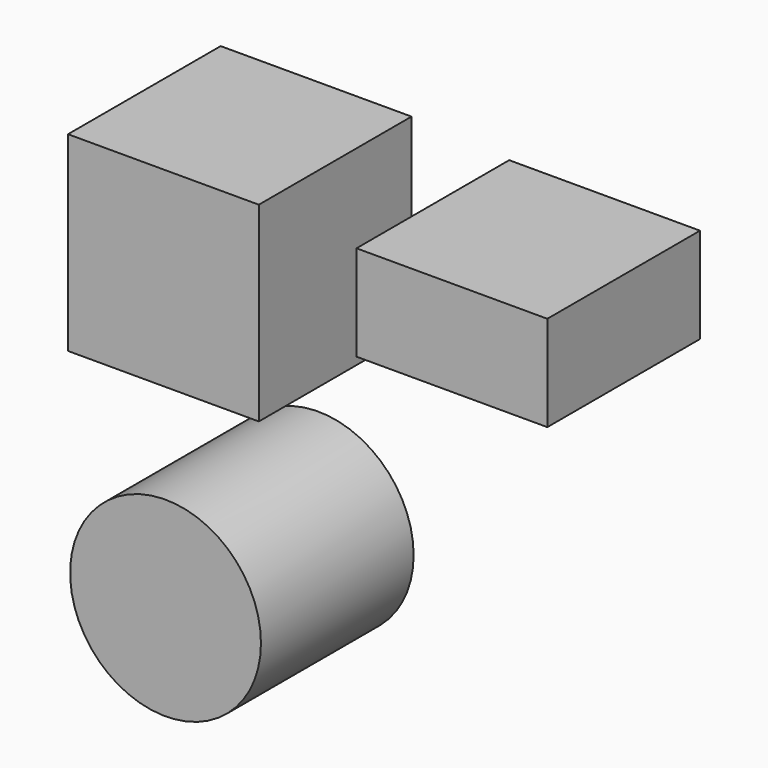
from build123d import *

# Parameters (mm, degrees)
F0_W     = 50.8
F0_H     = 50.8
F0_R     = 25.4
F0_H_2   = 25.4
F1_DEPTH = 50.8


with BuildPart() as f1:
    # F0 (on Front) → F1 (new body)
    with BuildSketch(Plane.XZ):
        with Locations((-38.380038, 38.225282)):
            Rectangle(F0_W, F0_H)
        with Locations((-37.814882, -38.962703)):
            Circle(F0_R)
        with Locations((38.420524, 49.165446)):
            Rectangle(F0_W, F0_H_2)
    extrude(amount=F1_DEPTH)


solid = f1.part
